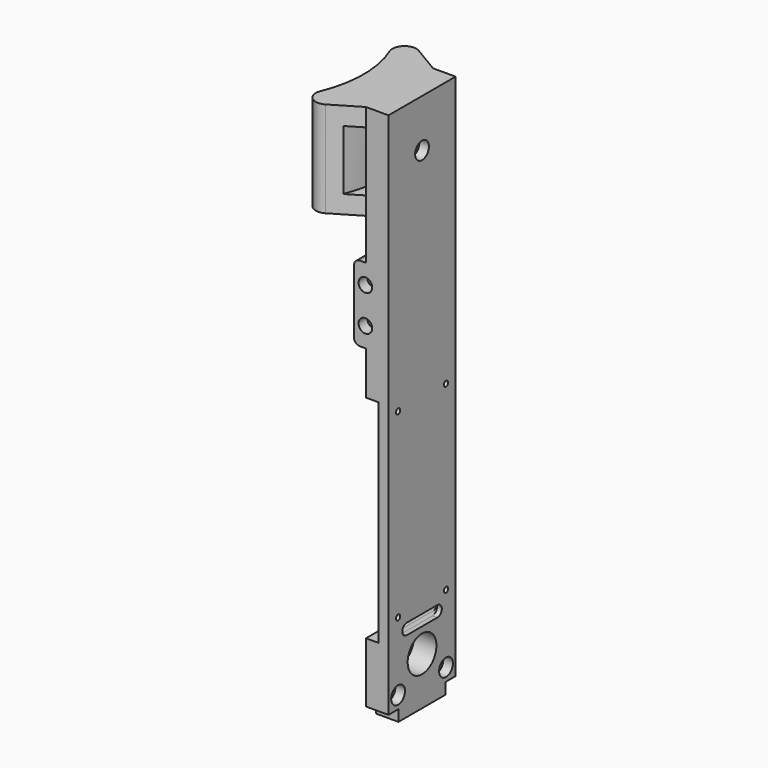
from build123d import *

# Parameters (mm, degrees)
SKETCH022_R         = 7.5
SKETCH022_R_2       = 1.125
PAD002_DEPTH        = 9.4
HOLE007_D           = 4
HOLE007_CBORE_D     = 7.2
HOLE007_CBORE_DEPTH = 4.2
POCKET005_DEPTH     = 5
PAD003_DEPTH        = 40
POCKET006_DEPTH     = 12.5
SKETCH030_W         = 35
SKETCH030_H         = 88.4
POCKET008_DEPTH     = 5.3
POCKET009_DEPTH     = 8
SKETCH039_W         = 21
SKETCH039_H         = 31.5
POCKET013_DEPTH     = 5
PAD006_DEPTH        = 7
HOLE008_D           = 3.3
HOLE008_DEPTH       = 20
HOLE008_CBORE_D     = 5.7
HOLE008_CBORE_DEPTH = 4.5
HOLE008_TIPS_R      = 1.65
HOLE009_D           = 3.2
HOLE009_DEPTH       = 11
HOLE009_CBORE_D     = 7.2
HOLE009_CBORE_DEPTH = 4.2
SKETCH042_R         = 4.841694
SKETCH042_R_2       = 4.912123
SKETCH042_R_3       = 5.957845
PAD007_DEPTH        = 0.2


with BuildPart() as part:
    # Sketch022 → Pad002 (new body)
    with BuildSketch(Plane.YZ.offset(62.5)):
        Polygon((-17.5, 225), (-17.5, 4.7), (-12.3, 4.7), (-12.3, 0), (12.3, 0), (12.3, 4.7), (17.5, 4.7), (17.5, 225), align=None)
        with Locations((0, 20)):
            Circle(SKETCH022_R, mode=Mode.SUBTRACT)
        with Locations((-12.5, 114.2)):
            Circle(SKETCH022_R_2, mode=Mode.SUBTRACT)
        with Locations((12.5, 114.2)):
            Circle(SKETCH022_R_2, mode=Mode.SUBTRACT)
        with Locations((-12.5, 38.45)):
            Circle(SKETCH022_R_2, mode=Mode.SUBTRACT)
        with Locations((12.5, 38.45)):
            Circle(SKETCH022_R_2, mode=Mode.SUBTRACT)
        with BuildLine():
            ThreePointArc((-8, 34.7), (-10.3, 32.4), (-8, 30.1))
            Line((-8, 30.1), (8, 30.1))
            ThreePointArc((8, 30.1), (10.3, 32.4), (8, 34.7))
            Line((-8, 34.7), (8, 34.7))
        make_face(mode=Mode.SUBTRACT)
    extrude(amount=PAD002_DEPTH)

    # Hole007 (through all)
    with Locations(Plane.YZ.offset(71.9)):
        with Locations((-12.5, 10), (12.5, 10)):
            CounterBoreHole(HOLE007_D / 2, HOLE007_CBORE_D / 2, HOLE007_CBORE_DEPTH)

    # Sketch026 → Pocket005 (cut)
    with BuildSketch(Plane.YZ.offset(69.9)):
        with BuildLine():
            ThreePointArc((-10.8, 34.75), (-13.15, 32.4), (-10.8, 30.05))
            Line((-10.8, 30.05), (10.8, 30.05))
            ThreePointArc((10.8, 30.05), (13.15, 32.4), (10.8, 34.75))
            Line((-10.8, 34.75), (10.8, 34.75))
        make_face()
    extrude(amount=-POCKET005_DEPTH, mode=Mode.SUBTRACT)

    # Sketch027 → Pad003 (join)
    with BuildSketch(Plane.XY.offset(225)):
        with BuildLine():
            ThreePointArc((43.918246, -18.095238), (47.5, 0), (43.918246, 18.095238))
            ThreePointArc((51.101403, 24.294818), (45.274345, 23.785172), (43.918246, 18.095238))
            Line((51.101403, 24.294818), (62.5, 17.5))
            Line((62.5, 17.5), (62.5, -17.5))
            Line((62.5, -17.5), (51.101403, -24.294818))
            ThreePointArc((43.918246, -18.095238), (45.274345, -23.785172), (51.101403, -24.294818))
        make_face()
    extrude(amount=-PAD003_DEPTH)

    # Sketch028 → Pocket006 (cut, symmetric)
    with BuildSketch(Plane.XY.offset(205)):
        with BuildLine():
            ThreePointArc((51.961524, -30), (60, 0), (51.961524, 30))
            Line((51.961524, 30), (62.5, 30))
            Line((62.5, 30), (62.5, -30))
            Line((62.5, -30), (51.961524, -30))
        make_face()
    extrude(amount=POCKET006_DEPTH, both=True, mode=Mode.SUBTRACT)

    # Sketch030 → Pocket008 (cut)
    with BuildSketch(Plane.YZ.offset(62.5)):
        with Locations((0, 74)):
            Rectangle(SKETCH030_W, SKETCH030_H)
    extrude(amount=POCKET008_DEPTH, mode=Mode.SUBTRACT)

    # Sketch031 → Pocket009 (cut)
    with BuildSketch(Plane.YZ.offset(62.5)):
        with BuildLine():
            ThreePointArc((13.845935, 107.277863), (12.783162, 108.340636), (11.720389, 107.277863))
            Line((11.720389, 107.277863), (11.720389, 84.030329))
            ThreePointArc((11.720389, 84.030329), (12.783162, 82.967556), (13.845935, 84.030329))
            Line((13.845935, 107.277863), (13.845935, 84.030329))
        make_face()
        with BuildLine():
            ThreePointArc((-13.393928, 109.875952), (-14.456701, 108.813179), (-13.393928, 107.750406))
            Line((-13.393928, 107.750406), (6.990506, 107.750406))
            ThreePointArc((6.990506, 107.750406), (8.053279, 108.813179), (6.990506, 109.875952))
            Line((-13.393928, 109.875952), (6.990506, 109.875952))
        make_face()
        with BuildLine():
            ThreePointArc((-13.495995, 94.718798), (-14.558768, 93.656025), (-13.495995, 92.593252))
            Line((-13.495995, 92.593252), (6.969508, 92.593252))
            ThreePointArc((6.969508, 92.593252), (8.032281, 93.656025), (6.969508, 94.718798))
            Line((-13.495995, 94.718798), (6.969508, 94.718798))
        make_face()
    extrude(amount=POCKET009_DEPTH, mode=Mode.SUBTRACT)

    # Sketch039 → Pocket013 (cut)
    with BuildSketch(Plane.YZ.offset(62.5)):
        with Locations((0, 152)):
            Rectangle(SKETCH039_W, SKETCH039_H)
    extrude(amount=POCKET013_DEPTH, mode=Mode.SUBTRACT)

    # Sketch040 → Pad006 (join)
    with BuildSketch(Plane.XZ.offset(10.5)):
        with BuildLine():
            Line((62.5, 167.75), (60, 167.75))
            ThreePointArc((60, 167.75), (58.232233, 167.017767), (57.5, 165.25))
            Line((57.5, 165.25), (57.5, 138.75))
            ThreePointArc((57.5, 138.75), (58.232233, 136.982233), (60, 136.25))
            Line((60, 136.25), (62.5, 136.25))
            Line((62.5, 136.25), (62.5, 167.75))
        make_face()
    extrude(amount=PAD006_DEPTH)

    # Hole008
    with Locations(Plane.XZ.offset(17.5)):
        with Locations((62.25, 159.5), (62.25, 144.5)):
            CounterBoreHole(HOLE008_D / 2, HOLE008_CBORE_D / 2, HOLE008_CBORE_DEPTH, depth=HOLE008_DEPTH)

    # Hole008 tips → Hole008 tip 1 section 0
    with BuildSketch(Plane.XZ.offset(-2.5), mode=Mode.PRIVATE) as hole008_tip_1_s0:
        with Locations((62.25, 159.5)):
            Circle(HOLE008_TIPS_R)
    loft([hole008_tip_1_s0.sketch, Vertex(62.25, 3.49142, 159.5)], mode=Mode.SUBTRACT)

    # Hole008 tips → Hole008 tip 2 section 0
    with BuildSketch(Plane.XZ.offset(-2.5), mode=Mode.PRIVATE) as hole008_tip_2_s0:
        with Locations((62.25, 144.5)):
            Circle(HOLE008_TIPS_R)
    loft([hole008_tip_2_s0.sketch, Vertex(62.25, 3.49142, 144.5)], mode=Mode.SUBTRACT)

    # Hole009
    with Locations(Plane.YZ.offset(71.9)):
        with Locations((0, 205)):
            CounterBoreHole(HOLE009_D / 2, HOLE009_CBORE_D / 2, HOLE009_CBORE_DEPTH, depth=HOLE009_DEPTH)

    # Sketch042 → Pad007 (join)
    with BuildSketch(Plane.YZ.offset(67.7)):
        with Locations((-12.26765, 9.945303)):
            Circle(SKETCH042_R)
        with Locations((12.134341, 9.945303)):
            Circle(SKETCH042_R_2)
        with Locations((0, 205)):
            Circle(SKETCH042_R_3)
    extrude(amount=PAD007_DEPTH)


solid = part.part
